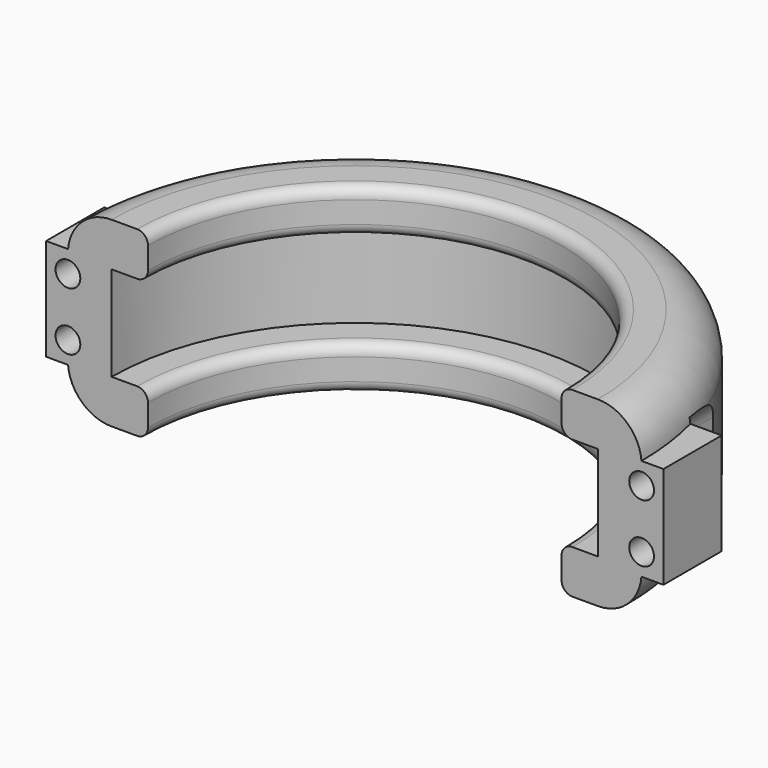
from build123d import *

# Parameters (mm, degrees)
REVOLUTION001_ANGLE = 180
SKETCH035_W         = 14
SKETCH035_H         = 6
PAD015_DEPTH        = 10
SKETCH034_R         = 1.7
POCKET_DEPTH        = 39.401
POCKET001_DEPTH     = 29.401


with BuildPart() as part:
    # Sketch033 → Revolution001 (revolve, symmetric)
    with BuildSketch(Plane.YZ) as revolution001_sk:
        with BuildLine():
            Line((33.4, 0), (33.4, 6.5))
            Line((33.4, 6.5), (29.9, 6.5))
            ThreePointArc((28.4, 8), (28.83934, 6.93934), (29.9, 6.5))
            Line((28.4, 8), (28.4, 11))
            ThreePointArc((29.9, 12.5), (28.83934, 12.06066), (28.4, 11))
            Line((29.9, 12.5), (33.4, 12.5))
            ThreePointArc((39.4, 6.5), (37.642641, 10.742641), (33.4, 12.5))
            Line((39.4, 6.5), (39.4, 0))
            Line((39.4, 0), (39.4, -6.5))
            ThreePointArc((33.4, -12.5), (37.642641, -10.742641), (39.4, -6.5))
            Line((33.4, -12.5), (29.9, -12.5))
            ThreePointArc((28.4, -11), (28.83934, -12.06066), (29.9, -12.5))
            Line((28.4, -11), (28.4, -8))
            ThreePointArc((29.9, -6.5), (28.83934, -6.93934), (28.4, -8))
            Line((29.9, -6.5), (33.4, -6.5))
            Line((33.4, -6.5), (33.4, 0))
        make_face()
    revolve(axis=Axis((0, 0, 0), (0, 0, 1)), revolution_arc=REVOLUTION001_ANGLE / 2)
    revolve(revolution001_sk.sketch, axis=Axis((0, 0, 0), (0, 0, -1)), revolution_arc=REVOLUTION001_ANGLE / 2)

    # Sketch035 (on Face18 of Revolution001) → Pad015 (new body)
    with BuildSketch(Plane(origin=(0, 0, 0), x_dir=(0, 0, -1), z_dir=(0, -1, 0))):
        with Locations((0, 39.4)):
            Rectangle(SKETCH035_W, SKETCH035_H)
        with Locations((0, -39.4)):
            Rectangle(SKETCH035_W, SKETCH035_H)
    extrude(amount=-PAD015_DEPTH)

    # Sketch034 (on Face18 of Revolution001) → Pocket (cut, through all)
    with BuildSketch(Plane(origin=(0, 0, 0), x_dir=(0, 0, -1), z_dir=(0, -1, 0))):
        with Locations((4, 39.4)):
            Circle(SKETCH034_R)
        with Locations((-4, 39.4)):
            Circle(SKETCH034_R)
        with Locations((-4, -39.4)):
            Circle(SKETCH034_R)
        with Locations((4, -39.4)):
            Circle(SKETCH034_R)
    extrude(amount=-POCKET_DEPTH, mode=Mode.SUBTRACT)

    # Sketch037 (on Face22 of Pocket) → Pocket001 (cut, through all)
    with BuildSketch(Plane.ZX.offset(10)):
        with BuildLine():
            Line((-4, 43.4), (4.000001, 43.4))
            ThreePointArc((4.000001, 35.4), (8, 39.4), (4.000001, 43.4))
            Line((-4, 35.4), (4.000001, 35.4))
            ThreePointArc((-4, 43.4), (-8, 39.4), (-4, 35.4))
        make_face()
        with BuildLine():
            Line((-4, -35.4), (4, -35.4))
            ThreePointArc((4, -43.4), (8, -39.4), (4, -35.4))
            Line((-4, -43.4), (4, -43.4))
            ThreePointArc((-4, -35.4), (-8, -39.4), (-4, -43.4))
        make_face()
    extrude(amount=POCKET001_DEPTH, mode=Mode.SUBTRACT)


with BuildPart() as part_1:
    # Body008 placement: moved
    add(part.part.moved(Location((0, 0, -0.5))))


solid = part_1.part
